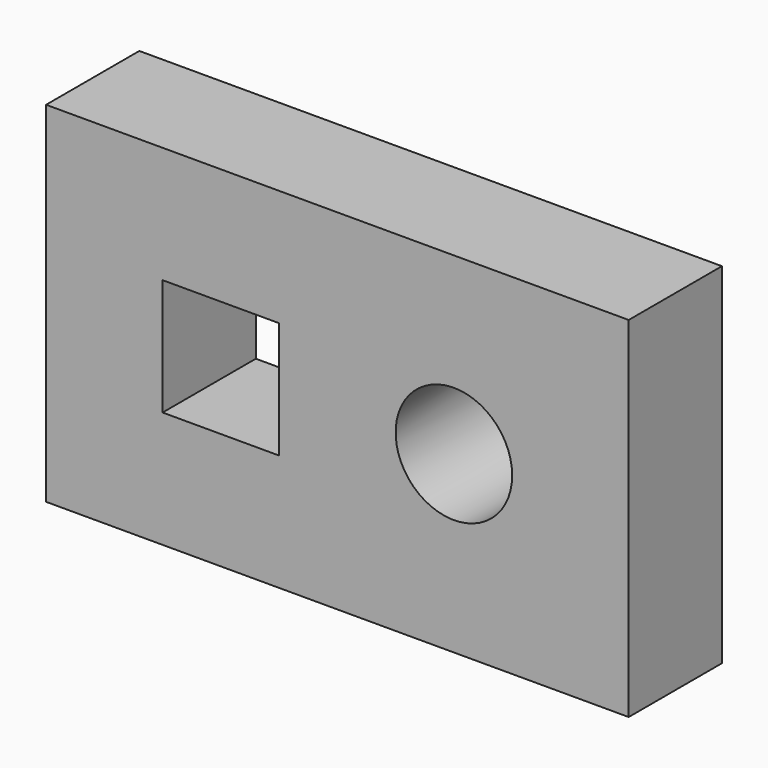
from build123d import *

# Parameters (mm, degrees)
F0_W     = 127
F0_H     = 76.2
F3_DEPTH = 25.4
F2_R     = 12.7
F1_W     = 25.4
F1_H     = 25.4
F4_DEPTH = 40.64


with BuildPart() as f3:
    # F0 (on Front) → F3 (new body)
    with BuildSketch(Plane.XZ):
        with Locations((-63.5, 38.1)):
            Rectangle(F0_W, F0_H)
    extrude(amount=F3_DEPTH)

    # F2 (on face) + F1 (on face) → F4 (cut)
    with BuildSketch(Plane.XZ):
        with Locations((-38.1, 38.1)):
            Circle(F2_R)
    with BuildSketch(Plane.XZ):
        with Locations((-88.9, 38.1)):
            Rectangle(F1_W, F1_H)
    extrude(amount=F4_DEPTH, mode=Mode.SUBTRACT)


solid = f3.part
